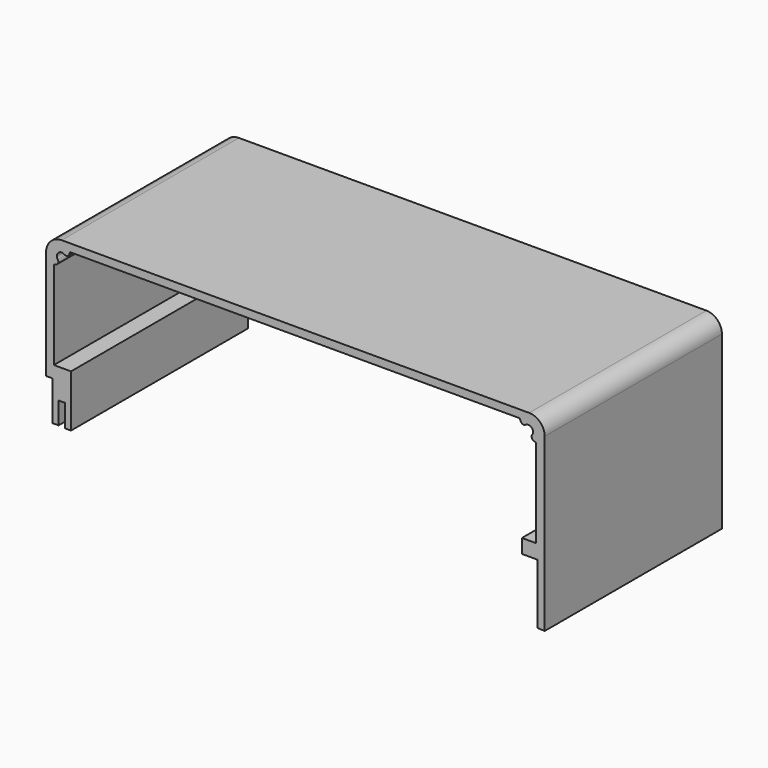
from build123d import *

# Parameters (mm, degrees)
F1_DEPTH = 90.28827
F2_R     = 1.27


with BuildPart() as f1:
    # F0 (on Front) → F1 (new body)
    with BuildSketch(Plane.XZ):
        with BuildLine():
            Line((95.418233, 53.753309), (-95.081767, 53.753309))
            ThreePointArc((-95.081767, 53.753309), (-99.571895, 51.893437), (-101.431767, 47.403309))
            Line((-101.431767, 47.403309), (-101.431767, 2.953309))
            Line((-101.431767, 2.953309), (-98.891767, 2.953309))
            Line((-98.891767, 2.953309), (-98.891767, -13.107789))
            Line((-98.891767, -13.107789), (-96.351767, -13.107789))
            Line((-96.351767, -13.107789), (-96.351767, -4.1605))
            Line((-96.351767, -4.1605), (-93.811767, -4.1605))
            Line((-93.811767, -4.1605), (-93.811767, -13.32082))
            Line((-93.811767, -13.32082), (-91.271767, -13.32082))
            Line((-91.271767, -13.32082), (-91.271767, 7.930357))
            Line((-91.271767, 7.930357), (-98.256767, 7.930357))
            Line((-98.256767, 7.930357), (-98.256767, 43.912427))
            Line((-98.256767, 43.912427), (-94.767516, 45.48087))
            ThreePointArc((-94.767516, 45.48087), (-96.459179, 48.780721), (-93.159327, 47.089058))
            Line((-93.159327, 47.089058), (-91.590885, 50.578309))
            Line((-91.590885, 50.578309), (91.590885, 50.578309))
            Line((91.590885, 50.578309), (93.159327, 47.089058))
            ThreePointArc((93.159327, 47.089058), (96.459179, 48.780721), (94.767516, 45.48087))
            Line((94.767516, 45.48087), (98.256767, 43.912427))
            Line((98.256767, 43.912427), (98.256767, 7.930357))
            Line((98.256767, 7.930357), (92.504933, 7.930357))
            Line((92.504933, 7.930357), (92.504933, 2.178528))
            Line((92.504933, 2.178528), (98.895855, 2.178528))
            Line((98.895855, 2.178528), (98.895855, -22.320004))
            Line((98.895855, -22.320004), (101.768233, -22.446691))
            Line((101.768233, -22.446691), (101.768233, 47.403309))
            ThreePointArc((101.768233, 47.403309), (99.908361, 51.893437), (95.418233, 53.753309))
        make_face()
    extrude(amount=F1_DEPTH)

    # F2
    f2_edges = [f1.edges().sort_by_distance(p)[0] for p in [
        (-94.767516, -45.144135, 45.48087),
        (-93.159327, -45.144135, 47.089058),
        (93.159327, -45.144135, 47.089058),
        (94.767516, -45.144135, 45.48087),
    ]]
    fillet(f2_edges, radius=F2_R)


solid = f1.part
